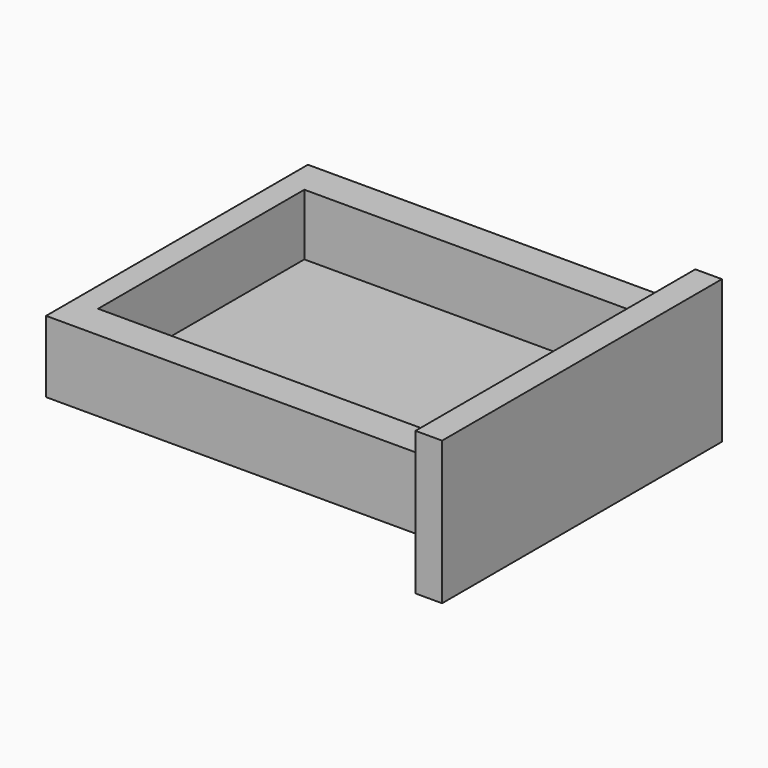
from build123d import *

# Parameters (mm, degrees)
F0_W     = 370
F0_H     = 320
F1_DEPTH = 70
F2_W     = 322.659016
F2_H     = 252.088964
F3_DEPTH = 60
F4_W     = 342
F4_H     = 140
F5_DEPTH = 26


with BuildPart() as f1:
    # F0 (on Top) → F1 (new body)
    with BuildSketch(Plane.XY):
        Rectangle(F0_W, F0_H)
    extrude(amount=F1_DEPTH)

    # F2 (on face) → F3 (cut)
    with BuildSketch(Plane.XY.offset(70)):
        Rectangle(F2_W, F2_H)
    extrude(amount=-F3_DEPTH, mode=Mode.SUBTRACT)

    # F4 (on face) → F5 (join)
    with BuildSketch(Plane.YZ.offset(185)):
        with Locations((0, 25.815584)):
            Rectangle(F4_W, F4_H)
    extrude(amount=F5_DEPTH)


solid = f1.part
